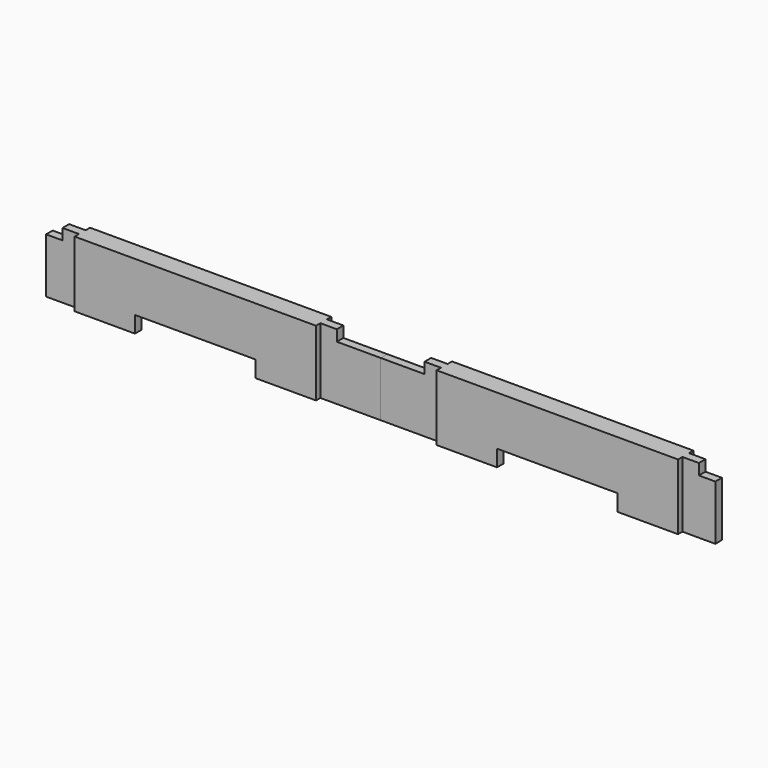
from build123d import *

# Parameters (mm, degrees)
F0_W     = 387.35
F0_H     = 76.2
F1_DEPTH = 22.225
F2_W     = 69.85
F2_H     = 6.35
F2_W_2   = 38.1
F3_DEPTH = 76.2
F4_W     = 50.8
F4_H     = 12.7
F4_W_2   = 19.05
F5_DEPTH = 9.525
F6_W     = 139.7
F6_H     = 19.05
F7_DEPTH = 22.225
F8_W     = 215.9
F8_H     = 12.7
F9_DEPTH = 25.4


with BuildPart() as f1:
    # F0 (on Front) → F1 (new body)
    with BuildSketch(Plane.XZ):
        with Locations((193.675, 38.1)):
            Rectangle(F0_W, F0_H)
    extrude(amount=F1_DEPTH)

    # F2 (on face) → F3 (cut, through all)
    with BuildSketch(Plane(origin=(0, 0, 0), x_dir=(1, 0, 0), z_dir=(0, 0, -1))):
        with Locations((34.925, 19.05)):
            Rectangle(F2_W, F2_H)
        with Locations((34.925, 3.175)):
            Rectangle(F2_W, F2_H)
        with Locations((368.3, 19.05)):
            Rectangle(F2_W_2, F2_H)
        with Locations((368.3, 3.175)):
            Rectangle(F2_W_2, F2_H)
    extrude(amount=-F3_DEPTH, mode=Mode.SUBTRACT)

    # F4 (on face) → F5 (cut, through all)
    with BuildSketch(Plane.XZ.offset(15.875)):
        with Locations((25.4, 69.85)):
            Rectangle(F4_W, F4_H)
        with Locations((377.825, 69.85)):
            Rectangle(F4_W_2, F4_H)
    extrude(amount=-F5_DEPTH, mode=Mode.SUBTRACT)

    # F6 (on face) → F7 (cut, through all)
    with BuildSketch(Plane.XZ.offset(22.225)):
        with Locations((209.55, 9.525)):
            Rectangle(F6_W, F6_H)
    extrude(amount=-F7_DEPTH, mode=Mode.SUBTRACT)

    # F8 (on face) → F9 (cut)
    with BuildSketch(Plane(origin=(0, 0, 0), x_dir=(1, 0, 0), z_dir=(0, 0, -1))):
        Polygon((69.85, 6.35), (69.85, 0), (139.7, 0), (139.7, 12.7), (63.5, 12.7), (63.5, 6.35), align=None)
        with Locations((247.65, 6.35)):
            Rectangle(F8_W, F8_H)
    extrude(amount=-F9_DEPTH, mode=Mode.SUBTRACT)


with BuildPart() as f10_1:
    # F10: instance of F1
    add(f1.part.mirror(Plane.YZ))


solid = Compound([f1.part, f10_1.part])
